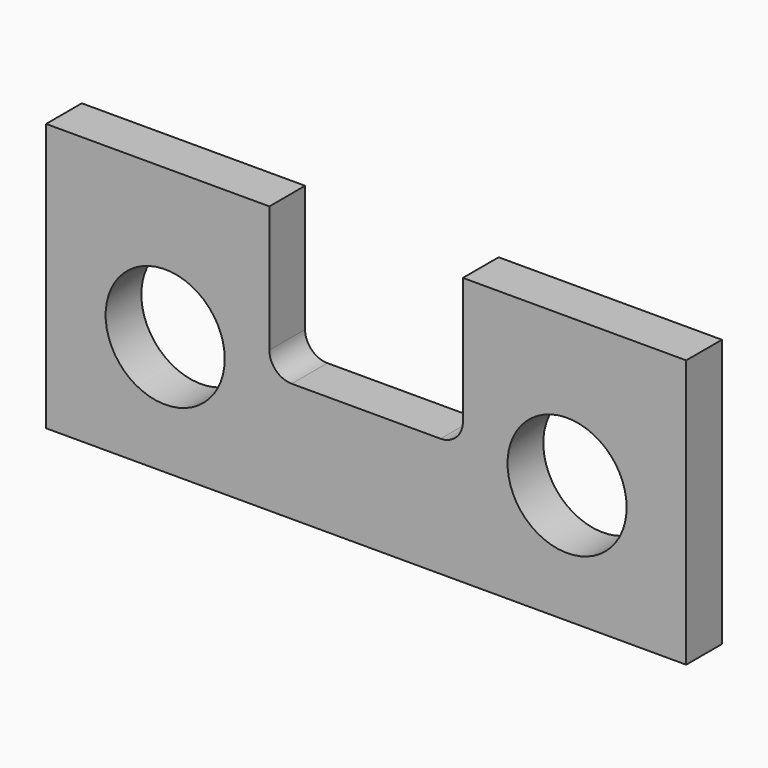
from build123d import *

# Parameters (mm, degrees)
F0_W     = 273.05
F0_H     = 114.3
F1_DEPTH = 19.05
F2_R     = 25.4
F3_DEPTH = 25.4
F5_DEPTH = 25.4


with BuildPart() as f1:
    # F0 (on Front) → F1 (new body)
    with BuildSketch(Plane.XZ):
        with Locations((136.525, 57.15)):
            Rectangle(F0_W, F0_H)
    extrude(amount=F1_DEPTH)

    # F2 (on face) → F3 (cut)
    with BuildSketch(Plane.XZ.offset(19.05)):
        with Locations((50.8, 50.8)):
            Circle(F2_R)
        with Locations((222.25, 50.8)):
            Circle(F2_R)
    extrude(amount=-F3_DEPTH, mode=Mode.SUBTRACT)

    # F4 (on face) → F5 (cut)
    with BuildSketch(Plane.XZ.offset(19.05)):
        with BuildLine():
            Line((177.8, 114.3), (95.25, 114.3))
            Line((95.25, 114.3), (95.25, 60.325))
            ThreePointArc((95.25, 60.325), (98.039808, 53.589808), (104.775, 50.8))
            Line((104.775, 50.8), (168.275, 50.8))
            ThreePointArc((168.275, 50.8), (175.010192, 53.589808), (177.8, 60.325))
            Line((177.8, 60.325), (177.8, 114.3))
        make_face()
    extrude(amount=-F5_DEPTH, mode=Mode.SUBTRACT)


solid = f1.part
